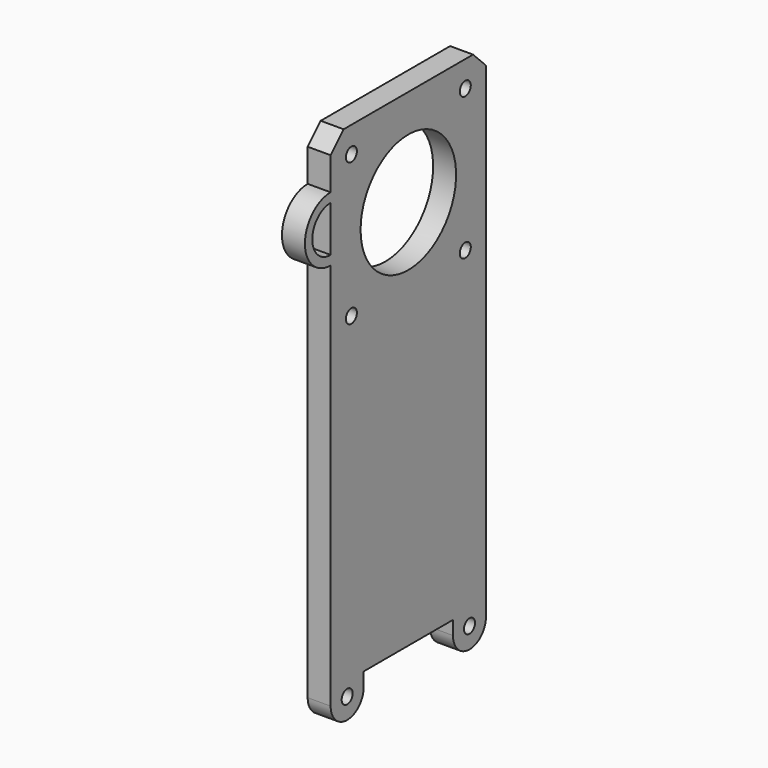
from build123d import *

# Parameters (mm, degrees)
SKETCH009_R     = 1.5
SKETCH009_R_2   = 13
PAD007_DEPTH    = 5
PAD028_DEPTH    = 6
SKETCH071_W     = 4.5
SKETCH071_H     = 5.5
POCKET019_DEPTH = 2
FILLET002_R     = 1
PAD032_DEPTH    = 5
FILLET003_R     = 5
PAD035_DEPTH    = 5


with BuildPart() as part:
    # Sketch009 (on Face1 of Binder012) → Pad007 (new body)
    with BuildSketch(Plane(origin=(-40, 0, 0), x_dir=(0, -1, 0), z_dir=(-1, 0, 0))):
        with BuildLine():
            Line((-21.15, -17.6144660941), (-21.15, 17.6144660941))
            Line((-21.15, 17.6144660941), (-17.6144660941, 21.15))
            Line((-17.6144660941, 21.15), (17.6144660941, 21.15))
            Line((17.6144660941, 21.15), (21.15, 17.6144660941))
            Line((21.15, 17.6144660941), (21.15, -17.6144660941))
            Line((21.15, -17.6144660941), (21.15, -85))
            Line((21.15, -88), (21.15, -85))
            ThreePointArc((12.15, -88), (16.65, -92.5), (21.15, -88))
            Line((12.15, -85), (12.15, -88))
            Line((-12.15, -85), (12.15, -85))
            Line((-12.15, -88), (-12.15, -85))
            ThreePointArc((-21.15, -88), (-16.65, -92.5), (-12.15, -88))
            Line((-21.15, -85), (-21.15, -88))
            Line((-21.15, -85), (-21.15, -17.6144660941))
        make_face()
        with Locations((-15.5, 15.5)):
            Circle(SKETCH009_R, mode=Mode.SUBTRACT)
        with Locations((15.5, 15.5)):
            Circle(SKETCH009_R, mode=Mode.SUBTRACT)
        with Locations((15.5, -15.5)):
            Circle(SKETCH009_R, mode=Mode.SUBTRACT)
        with Locations((-15.5, -15.5)):
            Circle(SKETCH009_R, mode=Mode.SUBTRACT)
        Circle(SKETCH009_R_2, mode=Mode.SUBTRACT)
        with Locations((-16.65, -88)):
            Circle(SKETCH009_R, mode=Mode.SUBTRACT)
        with Locations((16.65, -88)):
            Circle(SKETCH009_R, mode=Mode.SUBTRACT)
    extrude(amount=PAD007_DEPTH)

    # Sketch070 (on Face23 of Pad007) → Pad028 (join)
    with BuildSketch(Plane(origin=(-45, 0, 0), x_dir=(0, -1, 0), z_dir=(-1, 0, 0))):
        with BuildLine():
            ThreePointArc((12.5199840255, -3.5), (13, 0), (12.5199840255, 3.5))
            Line((12.5199840255, 3.5), (16.5199840255, 3.5))
            Line((16.5199840255, 3.5), (16.5199840255, -3.5))
            Line((16.5199840255, -3.5), (12.5199840255, -3.5))
        make_face()
    extrude(amount=PAD028_DEPTH)

    # Sketch071 (on Face25 of Pad028) → Pocket019 (cut)
    with BuildSketch(Plane.XZ.offset(14.5199840255)):
        with Locations((-47.25, 0.75)):
            Rectangle(SKETCH071_W, SKETCH071_H)
    extrude(amount=-POCKET019_DEPTH, mode=Mode.SUBTRACT)

    # Fillet002
    fillet002_edges = [part.edges().sort_by_distance(p)[0] for p in [
        (-48, -16.519984, 3.5),
        (-48, -16.519984, -3.5),
        (-51, -14.519984, -3.5),
        (-51, -16.519984, 0),
    ]]
    fillet(fillet002_edges, radius=FILLET002_R)

    # Sketch077 (on DatumPlane) → Pad032 (join, symmetric)
    with BuildSketch(Plane(origin=(-44.1666666667, 0, 14.1), x_dir=(-1, 0, 0), z_dir=(0, 1, 0))):
        Polygon((0.8333333333, -27.1), (3.8333333333, -30.1), (3.8333333333, -91.1), (0.8333333333, -94.1), align=None)
    extrude(amount=PAD032_DEPTH, both=True)

    # Fillet003
    fillet003_edges = [part.edges().sort_by_distance(p)[0] for p in [
        (-48, 0, -16),
        (-48, 0, -77),
    ]]
    fillet(fillet003_edges, radius=FILLET003_R)

    # Sketch085 (on Face4 of Fillet003) → Pad035 (join)
    with BuildSketch(Plane(origin=(-45, 0, 0), x_dir=(0, -1, 0), z_dir=(-1, 0, 0))):
        with BuildLine():
            ThreePointArc((21.15, -1.5), (26.15, 3.5), (21.15, 8.5))
            Line((21.15, 10.5), (21.15, 8.5))
            ThreePointArc((21.15, -3.5), (28.15, 3.5), (21.15, 10.5))
            Line((21.15, -1.5), (21.15, -3.5))
        make_face()
    extrude(amount=-PAD035_DEPTH)


solid = part.part
